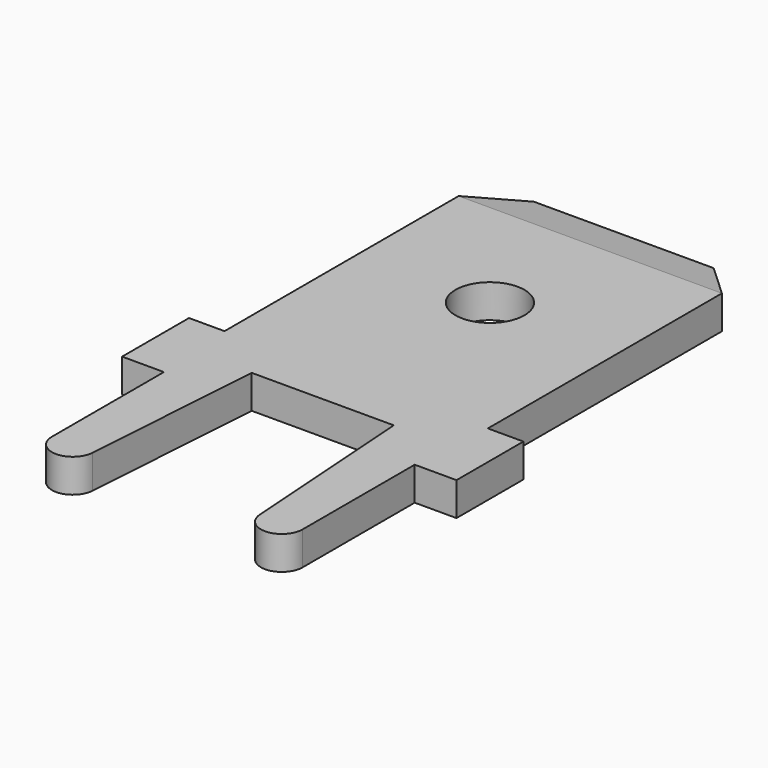
from build123d import *

# Parameters (mm, degrees)
SKETCH_R     = 0.825
PAD_DEPTH    = 0.4
POCKET_DEPTH = 7.151


with BuildPart() as part:
    # Sketch → Pad (new body, symmetric)
    with BuildSketch(Plane.XY):
        with BuildLine():
            Line((-4, 0), (-4, 2))
            Line((-4, 2), (-3.15, 2))
            Line((-3.15, 2), (-3.15, 9))
            Line((-3.15, 9), (-2.15, 10))
            Line((-2.15, 10), (2.15, 10))
            Line((2.15, 10), (3.15, 9))
            Line((3.15, 9), (3.15, 2))
            Line((3.15, 2), (4, 2))
            Line((4, 2), (4, 0))
            Line((4, 0), (3, 0))
            Line((3, 0), (3, -3.35))
            ThreePointArc((2.001176, -3.384267), (2.517143, -3.849706), (3, -3.35))
            Line((2.001176, -3.384267), (1.7, 1))
            Line((1.7, 1), (-1.7, 1))
            Line((-1.7, 1), (-2.001176, -3.384267))
            ThreePointArc((-3, -3.35), (-2.517143, -3.849706), (-2.001176, -3.384267))
            Line((-3, -3.35), (-3, 0))
            Line((-3, 0), (-4, 0))
        make_face()
        with Locations((0, 6)):
            Circle(SKETCH_R, mode=Mode.SUBTRACT)
    extrude(amount=PAD_DEPTH, both=True)

    # Sketch001 (on Face3 of Pad) → Pocket (cut, through all)
    with BuildSketch(Plane(origin=(-3.15, 0, 0), x_dir=(0, -1, 0), z_dir=(-1, 0, 0))):
        Polygon((-9, 0.4), (-9, 1), (-11, 1), (-11, -1), (-9, -1), (-9, -0.4), (-10, -0.2), (-10, 0.2), align=None)
    extrude(amount=-POCKET_DEPTH, mode=Mode.SUBTRACT)


solid = part.part
